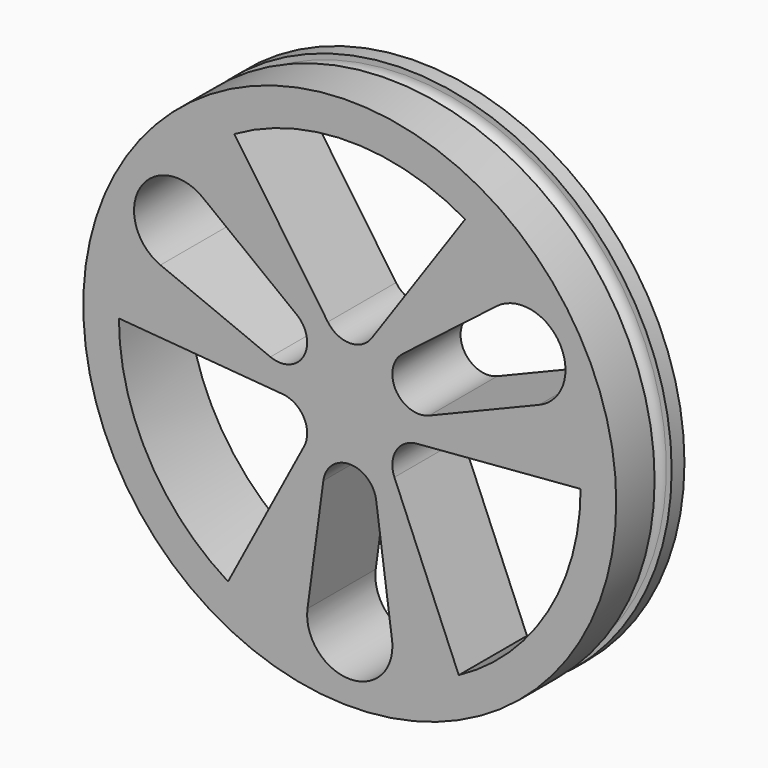
from build123d import *

# Parameters (mm, degrees)
F0_R     = 25
F1_DEPTH = 8


with BuildPart() as f1:
    # F0 (on Front) → F1 (new body)
    with BuildSketch(Plane.XZ):
        Circle(F0_R)
        with BuildLine():
            ThreePointArc((-6.2911320005, -1.258341894), (-4.6566930006, -2.055914158), (-3.9951905284, -3.75))
            ThreePointArc((-3.9951905284, -3.75), (-4.0688017418, -4.3521938694), (-4.2853004935, -4.9189251617))
            Line((-4.2853004935, -4.9189251617), (-11.4197404295, -18.406809789))
            ThreePointArc((-11.4197404295, -18.406809789), (-18.9263275437, -10.5316377181), (-21.656124647, 0))
            Line((-21.656124647, 0), (-6.2911320005, -1.258341894))
        make_face(mode=Mode.SUBTRACT)
        with BuildLine():
            ThreePointArc((-2.4776781192, -7.1666666268), (4.12e-08, -5), (2.4776781302, -7.1666667085))
            Line((2.4776781302, -7.1666667085), (3.9642850004, -18.2166666752))
            ThreePointArc((3.9642850004, -18.2166666752), (3.9910612625, -18.4827360871), (4, -18.75))
            ThreePointArc((4, -18.75), (-0.2672639673, -22.7410612588), (-3.9642849859, -18.2166665671))
            Line((-3.9642849859, -18.2166665671), (-2.4776781192, -7.1666666268))
        make_face(mode=Mode.SUBTRACT)
        with BuildLine():
            ThreePointArc((4.1900230789, -4.7175758524), (4.358457363, -2.4521666594), (6.2911320238, -1.2583418921))
            Line((6.2911320238, -1.2583418921), (21.656124647, 0))
            ThreePointArc((21.656124647, 0), (18.5815961436, -11.1289319018), (10.2254044168, -19.0963600074))
            Line((10.2254044168, -19.0963600074), (4.1900230789, -4.7175758524))
        make_face(mode=Mode.SUBTRACT)
        with BuildLine():
            ThreePointArc((-4.9676763745, 5.7290655648), (-4.2514452906, 4.8525458302), (-3.9951905284, 3.75))
            ThreePointArc((-3.9951905284, 3.75), (-5.1033230416, 1.6732947009), (-7.4453544478, 1.4376011317))
            Line((-7.4453544478, 1.4376011317), (-17.7582385142, 5.6751617787))
            ThreePointArc((-17.7582385142, 5.6751617787), (-19.7020779246, 11.3750000199), (-13.7939534917, 12.5415047624))
            Line((-13.7939534917, 12.5415047624), (-4.9676763745, 5.7290655648))
        make_face(mode=Mode.SUBTRACT)
        with BuildLine():
            ThreePointArc((7.4453544478, 1.4376011317), (4.3301270056, 2.500000023), (4.9676763665, 5.7290655586))
            Line((4.9676763665, 5.7290655586), (13.7939536323, 12.5415048709))
            ThreePointArc((13.7939536323, 12.5415048709), (18.0020496252, 12.9649923924), (20.237976321, 9.375))
            ThreePointArc((20.237976321, 9.375), (19.5607048413, 7.1480120835), (17.7582387309, 5.6751618677))
            Line((17.7582387309, 5.6751618677), (7.4453544478, 1.4376011317))
        make_face(mode=Mode.SUBTRACT)
        with BuildLine():
            ThreePointArc((2.0557685918, 6.0773913058), (0, 5), (-2.0557685918, 6.0773913058))
            Line((-2.0557685918, 6.0773913058), (-10.8253175473, 18.75))
            ThreePointArc((-10.8253175473, 18.75), (0, 21.6497859822), (10.8253175473, 18.75))
            Line((10.8253175473, 18.75), (2.0557685918, 6.0773913058))
        make_face(mode=Mode.SUBTRACT)
    extrude(amount=F1_DEPTH)

    # F3 (on Right) → F5 (revolve, cut)
    with BuildSketch(Plane.YZ):
        with BuildLine():
            Line((-3.5, 25), (-3.5, 24.5))
            ThreePointArc((-3.5, 24.5), (-3.4659258263, 24.7588190451), (-3.3660254038, 25))
            Line((-3.3660254038, 25), (-3.5, 25))
        make_face()
        with BuildLine():
            ThreePointArc((-3.3660254038, 25), (-3.4659258263, 24.7588190451), (-3.5, 24.5))
            ThreePointArc((-3.5, 24.5), (-2.5, 23.5), (-1.5, 24.5))
            ThreePointArc((-1.5, 24.5), (-1.5340741737, 24.7588190451), (-1.6339745962, 25))
            Line((-1.6339745962, 25), (-3.3660254038, 25))
        make_face()
        with BuildLine():
            ThreePointArc((-1.6339745962, 25), (-2.5, 25.5), (-3.3660254038, 25))
            Line((-3.3660254038, 25), (-1.6339745962, 25))
        make_face()
        with BuildLine():
            ThreePointArc((-1.6339745962, 25), (-1.5340741737, 24.7588190451), (-1.5, 24.5))
            Line((-1.5, 24.5), (-1.5, 25))
            Line((-1.5, 25), (-1.6339745962, 25))
        make_face()
    revolve(axis=Axis((0, -2.5, 0), (0, -1, 0)), mode=Mode.SUBTRACT)


solid = f1.part
